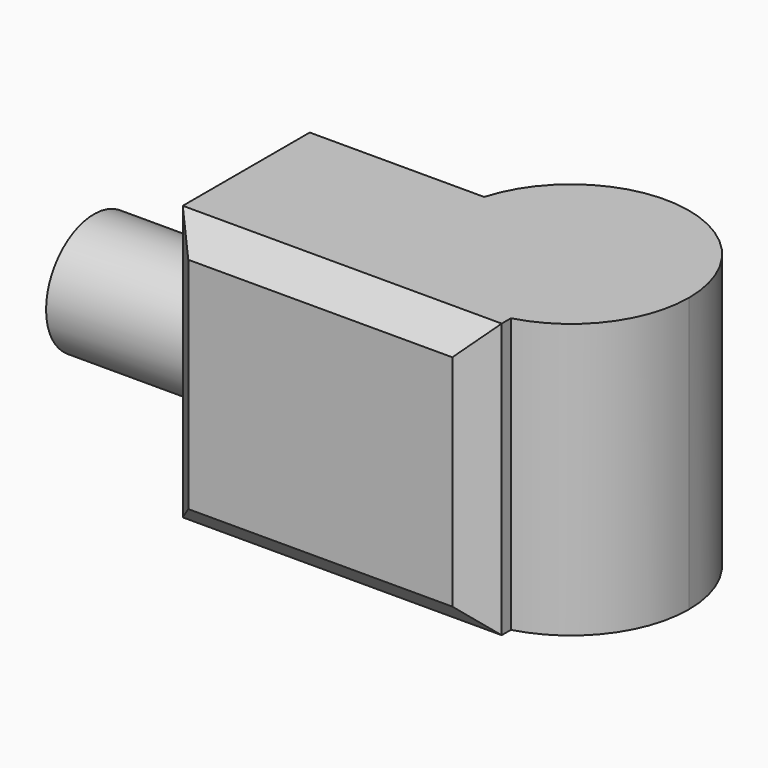
from build123d import *

# Parameters (mm, degrees)
F1_DEPTH = 50
F2_R     = 10.899508
F3_DEPTH = 25
F4_SIZE  = 5


with BuildPart() as f1:
    # F0 (on Top) → F1 (new body)
    with BuildSketch(Plane.XY):
        with BuildLine():
            Line((-35.020374, 9.075959), (-35.020374, -24.844296))
            Line((-35.020374, -24.844296), (23.102446, -24.844296))
            Line((23.102446, -24.844296), (23.102446, -17.734874))
            ThreePointArc((23.102446, -17.734874), (2.064421, -12.059264), (-3.237784, 9.075959))
            Line((-3.237784, 9.075959), (-35.020374, 9.075959))
        make_face()
        with BuildLine():
            Line((23.102446, 9.075959), (23.102446, -17.734874))
            ThreePointArc((23.102446, -17.734874), (34.530424, -10.031296), (38.942748, 3.02532))
            ThreePointArc((38.942748, 3.02532), (20.474798, 24.331467), (-3.237784, 9.075959))
            Line((-3.237784, 9.075959), (23.102446, 9.075959))
        make_face()
        with BuildLine():
            ThreePointArc((-3.237784, 9.075959), (2.064421, -12.059264), (23.102446, -17.734874))
            Line((23.102446, -17.734874), (23.102446, 9.075959))
            Line((23.102446, 9.075959), (-3.237784, 9.075959))
        make_face()
    extrude(amount=F1_DEPTH)

    # F2 (on face) → F3 (join)
    with BuildSketch(Plane(origin=(-35.020374, 0, 0), x_dir=(0, -1, 0), z_dir=(-1, 0, 0))):
        with Locations((8.835716, 25.147455)):
            Circle(F2_R)
    extrude(amount=F3_DEPTH)

    # F4
    f4_edges = [f1.edges().sort_by_distance(p)[0] for p in [
        (23.102446, -24.844296, 25),
        (-35.020374, -24.844296, 25),
        (-5.958964, -24.844296, 0),
        (-5.958964, -24.844296, 50),
    ]]
    chamfer(f4_edges, length=F4_SIZE)


solid = f1.part
